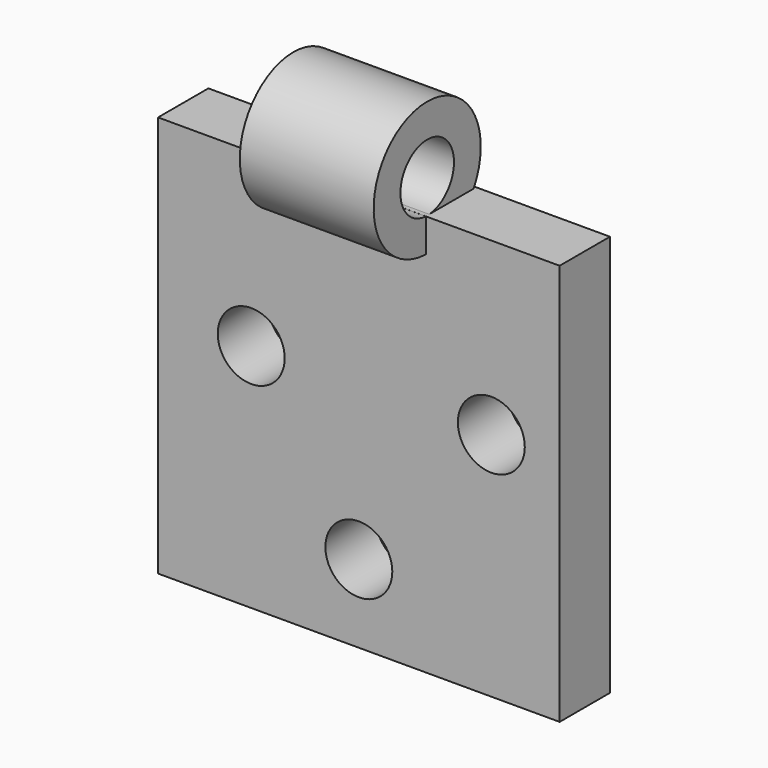
from build123d import *

# Parameters (mm, degrees)
F0_W     = 76.2
F0_H     = 76.2
F1_DEPTH = 11.938
F3_START = -25.4
F2_R     = 12.7
F2_R_2   = 6.35
F3_DEPTH = 25.4
F4_R     = 6.35
F5_DEPTH = 25.4


with BuildPart() as f1:
    # F0 (on Front) → F1 (new body)
    with BuildSketch(Plane.XZ):
        with Locations((38.1, 38.1)):
            Rectangle(F0_W, F0_H)
    extrude(amount=F1_DEPTH)

    # F2 (on face) → F3 (join)
    with BuildSketch(Plane(origin=(0, 0, 0), x_dir=(0, -1, 0), z_dir=(-1, 0, 0)).offset(F3_START)):
        with Locations((11.5956608206, 82.5315266848)):
            Circle(F2_R)
        with Locations((11.5956608206, 82.5315266848)):
            Circle(F2_R_2, mode=Mode.SUBTRACT)
    extrude(amount=-F3_DEPTH)

    # F4 (on face) → F5 (cut)
    with BuildSketch(Plane.XZ.offset(11.938)):
        with Locations((38.1, 14.7721702233)):
            Circle(F4_R)
        with Locations((17.6816564053, 43.7637194991)):
            Circle(F4_R)
        with Locations((63.2398054004, 43.7637194991)):
            Circle(F4_R)
    extrude(amount=-F5_DEPTH, mode=Mode.SUBTRACT)


solid = f1.part
